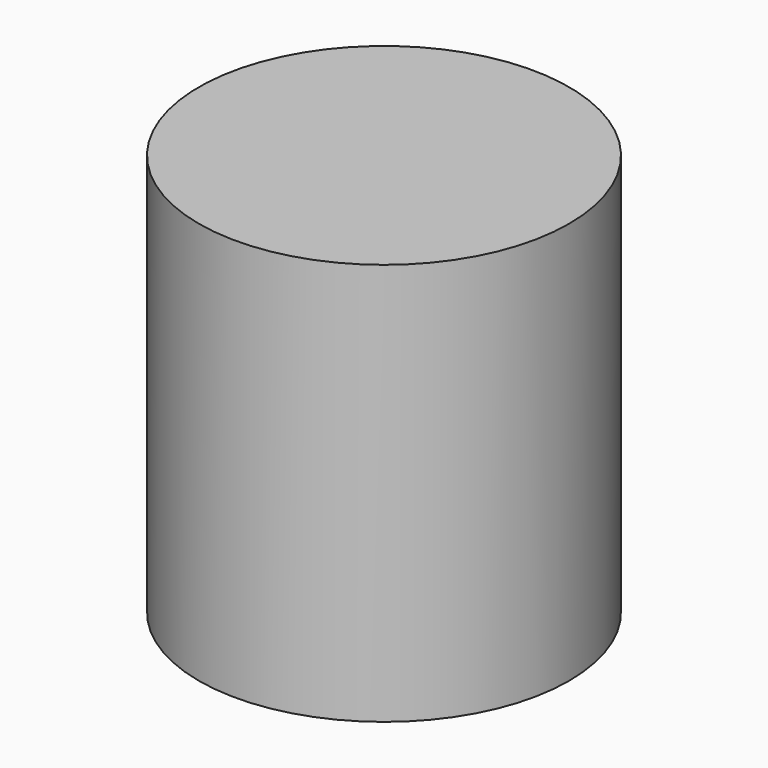
from build123d import *

# Parameters (mm, degrees)
F0_W     = 11.5
F0_H     = 40
F3_DEPTH = 25


with BuildPart() as f1:
    # F0 (on Front) → F1 (revolve)
    with BuildSketch(Plane.XZ):
        with Locations((5.75, 30)):
            Rectangle(F0_W, F0_H)
        Polygon((0, 10), (0, 0), (15, 0), (15, 10), (11.5, 10), align=None)
    revolve(axis=Axis((0, 0, 30), (0, 0, 1)))

    # F3 (cut): faces of the model
    f3_faces = [f1.faces().sort_by_distance(p)[0] for p in [
        (0, 0, 50),
        (-14.5757359313, 0, 10),
        (0, 0, 0),
    ]]
    extrude(f3_faces, amount=-F3_DEPTH, dir=(0, 0, 1), mode=Mode.SUBTRACT)


solid = f1.part
